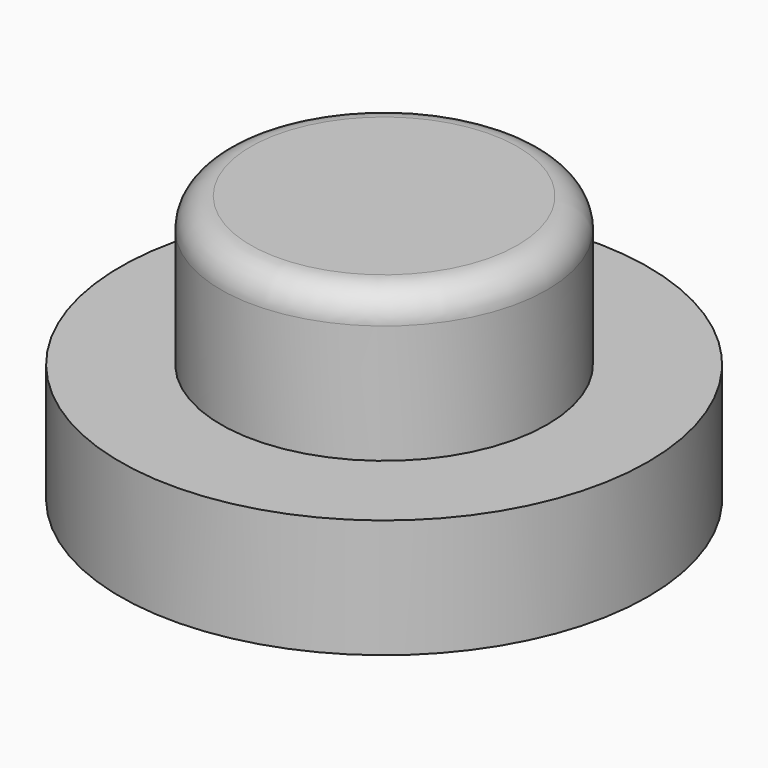
from build123d import *

# Parameters (mm, degrees)
CYLINDER063_R     = 4
CYLINDER063_DEPTH = 6
CYLINDER064_R     = 5.5
CYLINDER064_DEPTH = 9
FILLET005_R       = 1
CYLINDER065_R     = 8.9
CYLINDER065_DEPTH = 4


with BuildPart() as cylinder063:
    # Cylinder063 → Cylinder063 (new body)
    with BuildSketch(Plane.XY.offset(15.5)):
        Circle(CYLINDER063_R)
    extrude(amount=CYLINDER063_DEPTH)


with BuildPart() as fillet005:
    # Cylinder064 → Cylinder064 (new body)
    with BuildSketch(Plane.XY.offset(15.5)):
        Circle(CYLINDER064_R)
    extrude(amount=CYLINDER064_DEPTH)

    # Fillet005
    fillet005_edges = [fillet005.edges().sort_by_distance(p)[0] for p in [
        (-5.5, 0, 24.5),
    ]]
    fillet(fillet005_edges, radius=FILLET005_R)


with BuildPart() as hub_cap_middle:
    # Cylinder065 → Cylinder065 (new body)
    with BuildSketch(Plane.XY.offset(15.5)):
        Circle(CYLINDER065_R)
    extrude(amount=CYLINDER065_DEPTH)

    # Fusion031: union Fillet005
    add(fillet005.part)

    # Cut015: cut Cylinder063
    add(cylinder063.part, mode=Mode.SUBTRACT)


solid = hub_cap_middle.part
